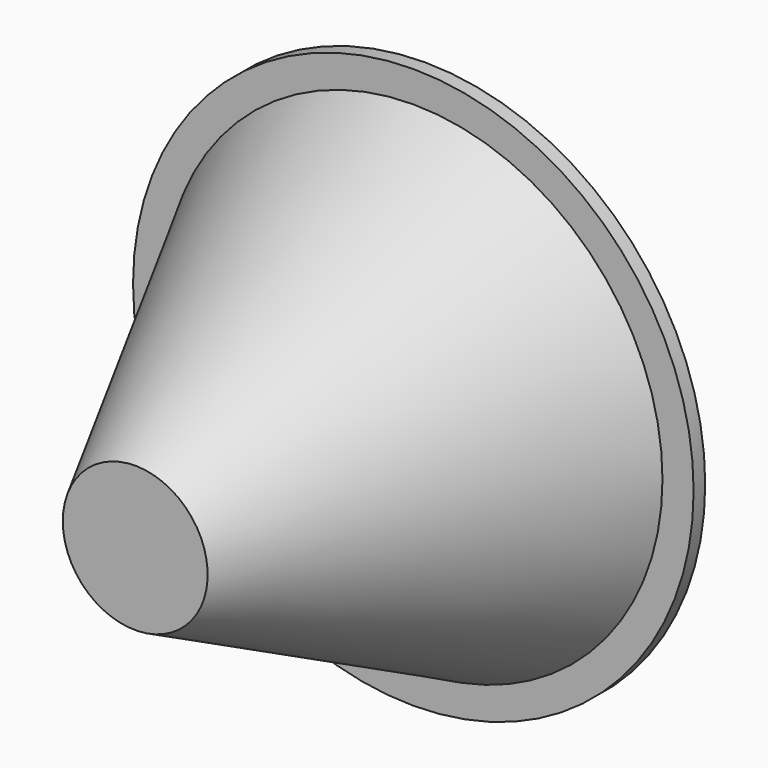
from build123d import *

# Parameters (mm, degrees)
F0_R     = 193.5
F1_DEPTH = 10


with BuildPart() as f1:
    # F0 (on Front) → F1 (new body)
    with BuildSketch(Plane.XZ):
        Circle(F0_R)
    extrude(amount=F1_DEPTH)

    # F2 (on Top) → F3 (revolve)
    with BuildSketch(Plane.XY):
        Polygon((0, -10), (-172, -10), (-50, -250), (0, -250), align=None)
    revolve(axis=Axis((0, -130, 0), (0, -1, 0)))


solid = f1.part
